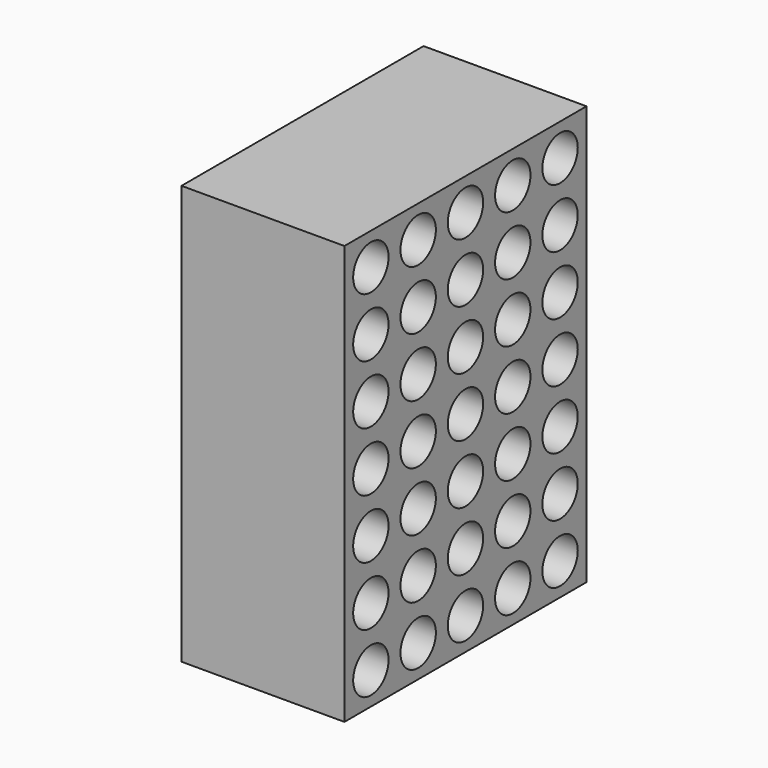
from build123d import *

# Parameters (mm, degrees)
SKETCH_W  = 13
SKETCH_H  = 18
SKETCH_R  = 0.95
PAD_DEPTH = 7


with BuildPart() as part:
    # Sketch → Pad (new body)
    with BuildSketch(Plane.YZ):
        with Locations((6.5, 9)):
            Rectangle(SKETCH_W, SKETCH_H)
        with Locations((1.42, 16.62)):
            Circle(SKETCH_R, mode=Mode.SUBTRACT)
        with Locations((11.58, 16.62)):
            Circle(SKETCH_R, mode=Mode.SUBTRACT)
        with Locations((11.58, 1.38)):
            Circle(SKETCH_R, mode=Mode.SUBTRACT)
        with Locations((3.96, 16.62)):
            Circle(SKETCH_R, mode=Mode.SUBTRACT)
        with Locations((6.5, 16.62)):
            Circle(SKETCH_R, mode=Mode.SUBTRACT)
        with Locations((9.04, 16.62)):
            Circle(SKETCH_R, mode=Mode.SUBTRACT)
        with Locations((11.58, 6.46)):
            Circle(SKETCH_R, mode=Mode.SUBTRACT)
        with Locations((11.58, 9)):
            Circle(SKETCH_R, mode=Mode.SUBTRACT)
        with Locations((11.58, 11.54)):
            Circle(SKETCH_R, mode=Mode.SUBTRACT)
        with Locations((11.58, 14.08)):
            Circle(SKETCH_R, mode=Mode.SUBTRACT)
        with Locations((11.58, 3.92)):
            Circle(SKETCH_R, mode=Mode.SUBTRACT)
        with Locations((9.04, 14.08)):
            Circle(SKETCH_R, mode=Mode.SUBTRACT)
        with Locations((6.5, 14.08)):
            Circle(SKETCH_R, mode=Mode.SUBTRACT)
        with Locations((3.96, 14.08)):
            Circle(SKETCH_R, mode=Mode.SUBTRACT)
        with Locations((1.42, 14.08)):
            Circle(SKETCH_R, mode=Mode.SUBTRACT)
        with Locations((9.04, 11.54)):
            Circle(SKETCH_R, mode=Mode.SUBTRACT)
        with Locations((6.5, 11.54)):
            Circle(SKETCH_R, mode=Mode.SUBTRACT)
        with Locations((3.96, 11.54)):
            Circle(SKETCH_R, mode=Mode.SUBTRACT)
        with Locations((1.42, 11.54)):
            Circle(SKETCH_R, mode=Mode.SUBTRACT)
        with Locations((9.04, 9)):
            Circle(SKETCH_R, mode=Mode.SUBTRACT)
        with Locations((6.5, 9)):
            Circle(SKETCH_R, mode=Mode.SUBTRACT)
        with Locations((3.96, 9)):
            Circle(SKETCH_R, mode=Mode.SUBTRACT)
        with Locations((1.42, 9)):
            Circle(SKETCH_R, mode=Mode.SUBTRACT)
        with Locations((9.04, 6.46)):
            Circle(SKETCH_R, mode=Mode.SUBTRACT)
        with Locations((6.5, 6.46)):
            Circle(SKETCH_R, mode=Mode.SUBTRACT)
        with Locations((3.96, 6.46)):
            Circle(SKETCH_R, mode=Mode.SUBTRACT)
        with Locations((1.42, 6.46)):
            Circle(SKETCH_R, mode=Mode.SUBTRACT)
        with Locations((1.42, 3.92)):
            Circle(SKETCH_R, mode=Mode.SUBTRACT)
        with Locations((3.96, 3.92)):
            Circle(SKETCH_R, mode=Mode.SUBTRACT)
        with Locations((6.5, 3.92)):
            Circle(SKETCH_R, mode=Mode.SUBTRACT)
        with Locations((9.04, 3.92)):
            Circle(SKETCH_R, mode=Mode.SUBTRACT)
        with Locations((9.04, 1.38)):
            Circle(SKETCH_R, mode=Mode.SUBTRACT)
        with Locations((6.5, 1.38)):
            Circle(SKETCH_R, mode=Mode.SUBTRACT)
        with Locations((3.96, 1.38)):
            Circle(SKETCH_R, mode=Mode.SUBTRACT)
        with Locations((1.42, 1.38)):
            Circle(SKETCH_R, mode=Mode.SUBTRACT)
    extrude(amount=PAD_DEPTH)


solid = part.part
